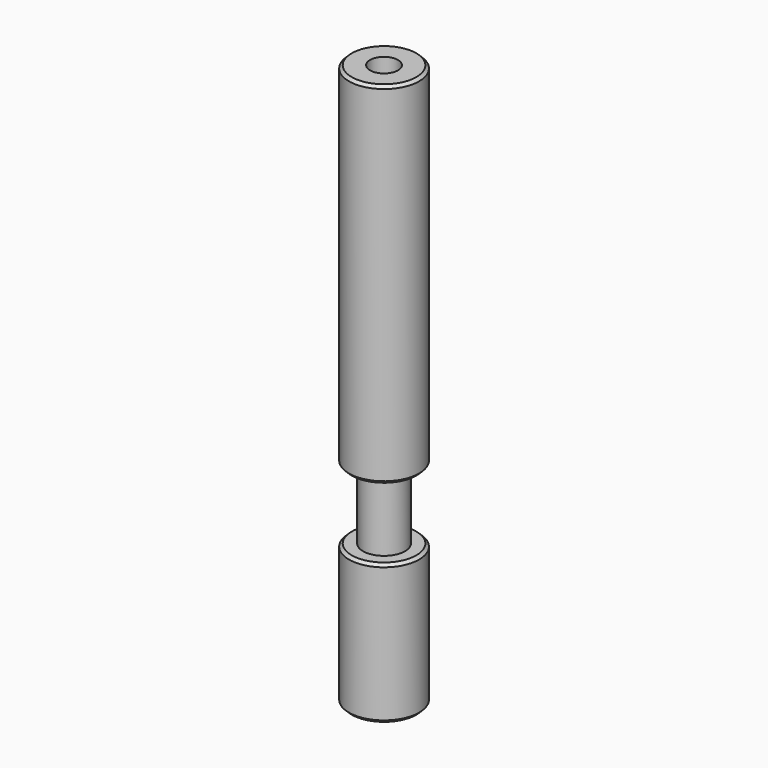
from build123d import *

# Parameters (mm, degrees)
F0_R     = 2.5
F1_DEPTH = 25
F2_R     = 1.5
F3_DEPTH = 5
F4_R     = 2.5
F4_R_2   = 1.5
F5_DEPTH = 10
F7_D     = 2
F8_SIZE  = 0.2


with BuildPart() as f1:
    # F0 (on Top) → F1 (new body)
    with BuildSketch(Plane.XY):
        Circle(F0_R)
    extrude(amount=F1_DEPTH)

    # F2 (on face) → F3 (join)
    with BuildSketch(Plane(origin=(0, 0, 0), x_dir=(1, 0, 0), z_dir=(0, 0, -1))):
        Circle(F2_R)
    extrude(amount=F3_DEPTH)

    # F4 (on face) → F5 (join)
    with BuildSketch(Plane(origin=(0, 0, -5), x_dir=(1, 0, 0), z_dir=(0, 0, -1))):
        Circle(F4_R)
        Circle(F4_R_2, mode=Mode.SUBTRACT)
        Circle(F4_R_2)
    extrude(amount=F5_DEPTH)

    # F7 (through all)
    with Locations(Plane.XY.offset(25)):
        with Locations((0, 0)):
            Hole(F7_D / 2)

    # F8
    f8_edges = [f1.edges().sort_by_distance(p)[0] for p in [
        (-2.5, 0, 25),
        (-2.5, 0, -5),
        (-2.5, 0, -15),
        (-2.5, 0, 0),
    ]]
    chamfer(f8_edges, length=F8_SIZE)


solid = f1.part
